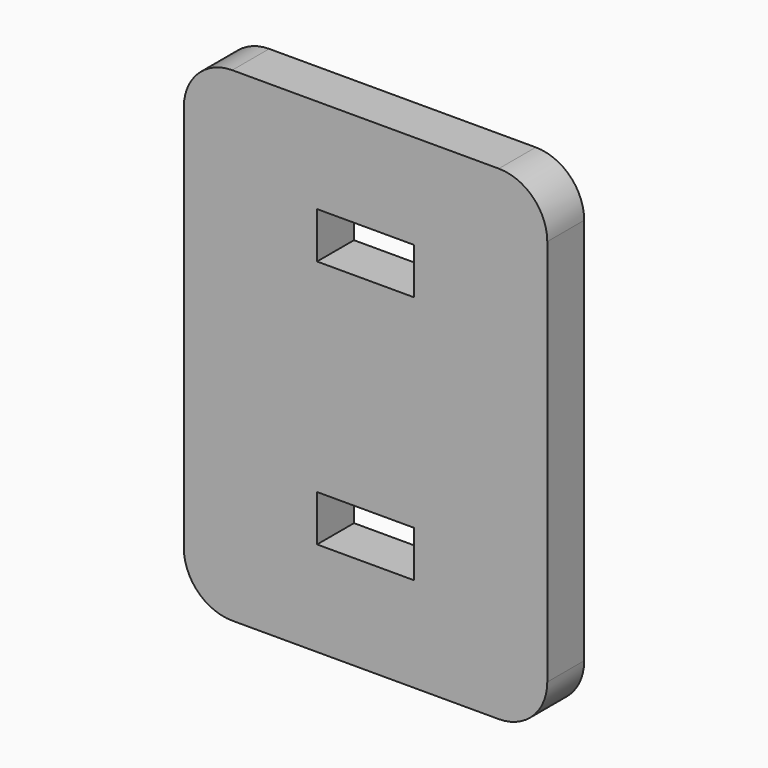
from build123d import *

# Parameters (mm, degrees)
F1_DEPTH = 9.525


with BuildPart() as f1:
    # F0 (on Front) → F1 (new body)
    with BuildSketch(Plane.XZ):
        with BuildLine():
            Line((13.503937, 61.43969), (-41.496063, 61.43969))
            ThreePointArc((-41.496063, 61.43969), (-48.567131, 58.510758), (-51.496063, 51.43969))
            Line((-51.496063, 51.43969), (-51.496063, -28.56031))
            ThreePointArc((-51.496063, -28.56031), (-48.567131, -35.631378), (-41.496063, -38.56031))
            Line((-41.496063, -38.56031), (13.503937, -38.56031))
            ThreePointArc((13.503937, -38.56031), (20.575005, -35.631378), (23.503937, -28.56031))
            Line((23.503937, -28.56031), (23.503937, 51.43969))
            ThreePointArc((23.503937, 51.43969), (20.575005, 58.510758), (13.503937, 61.43969))
        make_face()
        Polygon((-23.996063, -9.495226), (-3.996063, -9.495226), (-3.996063, -19.020226), (-13.996063, -19.020226), (-23.996063, -19.020226), align=None, mode=Mode.SUBTRACT)
        Polygon((-23.996063, 41.899607), (-13.996063, 41.899607), (-3.996063, 41.899607), (-3.996063, 32.374607), (-23.996063, 32.374607), align=None, mode=Mode.SUBTRACT)
    extrude(amount=F1_DEPTH)


solid = f1.part
